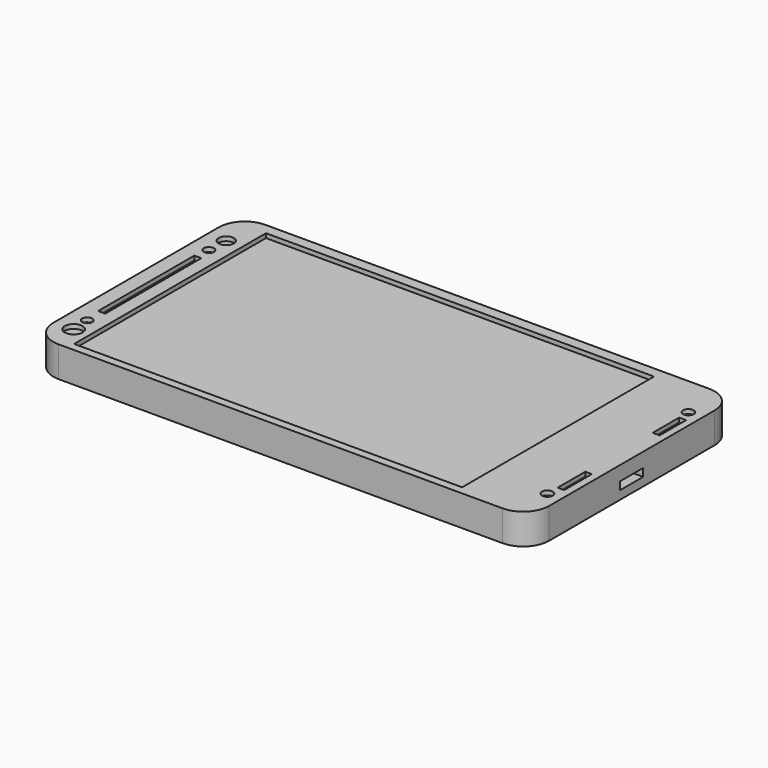
from build123d import *

# Parameters (mm, degrees)
F0_W      = 146.05
F0_H      = 76.2
F1_DEPTH  = 9.031111
F2_R      = 7.62
F3_W      = 8.543316
F3_H      = 2.313646
F4_DEPTH  = 25.4
F5_R      = 2.068187
F6_DEPTH  = 2.54
F7_DEPTH  = 38.1
F8_W      = 114.3
F8_H      = 70.64375
F9_DEPTH  = 1.27
F10_R     = 2.211011
F10_R_2   = 1.499171
F10_R_3   = 1.566639
F10_R_4   = 1.611216
F10_R_5   = 2.610704
F10_R_6   = 1.480203
F10_W     = 2.047286
F10_H     = 9.729784
F10_W_2   = 1.917139
F10_H_2   = 10.160214
F11_DEPTH = 1.27
F12_R     = 4.643642
F12_R_2   = 2.536257
F12_R_3   = 4.132051
F13_DEPTH = 1.27


with BuildPart() as f1:
    # F0 (on Top) → F1 (new body)
    with BuildSketch(Plane.XY):
        with Locations((2.936147, 0.115003)):
            Rectangle(F0_W, F0_H)
    extrude(amount=F1_DEPTH)

    # F2
    f2_edges = [f1.edges().sort_by_distance(p)[0] for p in [
        (75.961147, -37.984997, 4.515556),
        (-70.088853, -37.984997, 4.515556),
        (-70.088853, 38.215003, 4.515556),
        (75.961147, 38.215003, 4.515556),
    ]]
    fillet(f2_edges, radius=F2_R)

    # F3 (on face) → F4 (cut)
    with BuildSketch(Plane.YZ.offset(75.961147)):
        with Locations((0, 3.654829)):
            Rectangle(F3_W, F3_H)
    extrude(amount=-F4_DEPTH, mode=Mode.SUBTRACT)

    # F5 (on face) → F6 (cut)
    with BuildSketch(Plane(origin=(-70.088853, 0, 0), x_dir=(0, -1, 0), z_dir=(-1, 0, 0))):
        with Locations((-21.835269, 4.515556)):
            Circle(F5_R)
    extrude(amount=-F6_DEPTH, mode=Mode.SUBTRACT)

    # F5 (on face) → F7 (cut)
    with BuildSketch(Plane(origin=(-70.088853, 0, 0), x_dir=(0, -1, 0), z_dir=(-1, 0, 0))):
        with Locations((-21.835269, 4.515556)):
            Circle(F5_R)
    extrude(amount=-F7_DEPTH, mode=Mode.SUBTRACT)

    # F8 (on face) → F9 (cut)
    with BuildSketch(Plane.XY.offset(9.031111)):
        with Locations((-2.620103, -0.281872)):
            Rectangle(F8_W, F8_H)
    extrude(amount=-F9_DEPTH, mode=Mode.SUBTRACT)

    # F10 (on face) → F11 (cut)
    with BuildSketch(Plane.XY.offset(9.031111)):
        with Locations((-64.550646, 26.395293)):
            Circle(F10_R)
        with Locations((-64.775102, 20.281654)):
            Circle(F10_R_2)
        with Locations((71.801327, 26.097044)):
            Circle(F10_R_3)
        with Locations((71.801327, -25.825897)):
            Circle(F10_R_4)
        with Locations((-64.420246, -29.946957)):
            Circle(F10_R_5)
        with Locations((-64.775102, -24.518941)):
            Circle(F10_R_6)
        Polygon((-63.610494, 16.045377), (-65.666994, 16.045377), (-65.712694, -19.34428), (-63.610494, -19.34428), align=None)
        with Locations((72.82497, 17.815223)):
            Rectangle(F10_W, F10_H)
        with Locations((72.759896, -16.931376)):
            Rectangle(F10_W_2, F10_H_2)
    extrude(amount=-F11_DEPTH, mode=Mode.SUBTRACT)

    # F12 (on face) → F13 (cut)
    with BuildSketch(Plane(origin=(0, 0, 0), x_dir=(1, 0, 0), z_dir=(0, 0, -1))):
        with Locations((-57.045136, 0)):
            Circle(F12_R)
        with Locations((-46.850082, 0)):
            Circle(F12_R_2)
        with Locations((-32.002568, 0)):
            Circle(F12_R_3)
    extrude(amount=-F13_DEPTH, mode=Mode.SUBTRACT)


solid = f1.part
